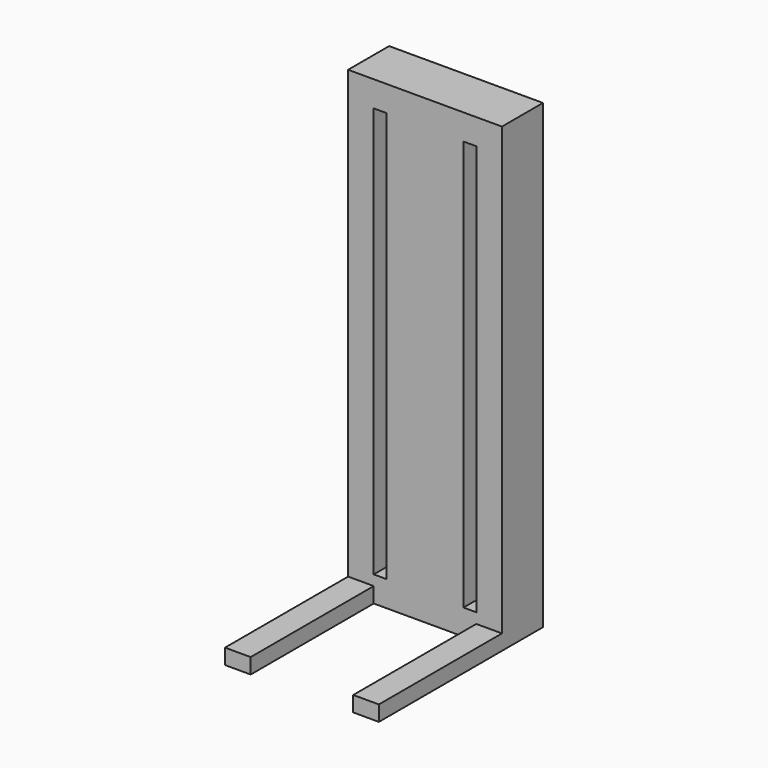
from build123d import *

# Parameters (mm, degrees)
F0_W     = 600
F0_H     = 1800
F1_DEPTH = 200
F2_W     = 100
F2_H     = 60
F3_DEPTH = 600
F4_W     = 50
F4_H     = 1600
F5_DEPTH = 100


with BuildPart() as f1:
    # F0 (on Front) → F1 (new body)
    with BuildSketch(Plane.XZ):
        with Locations((300, 900)):
            Rectangle(F0_W, F0_H)
    extrude(amount=F1_DEPTH)

    # F2 (on face) → F3 (join)
    with BuildSketch(Plane.XZ.offset(200)):
        with Locations((50, 30)):
            Rectangle(F2_W, F2_H)
        with Locations((550, 30)):
            Rectangle(F2_W, F2_H)
    extrude(amount=F3_DEPTH)

    # F4 (on face) → F5 (cut)
    with BuildSketch(Plane.XZ.offset(200)):
        with Locations((125, 900)):
            Rectangle(F4_W, F4_H)
        with Locations((475, 900)):
            Rectangle(F4_W, F4_H)
    extrude(amount=-F5_DEPTH, mode=Mode.SUBTRACT)


solid = f1.part
